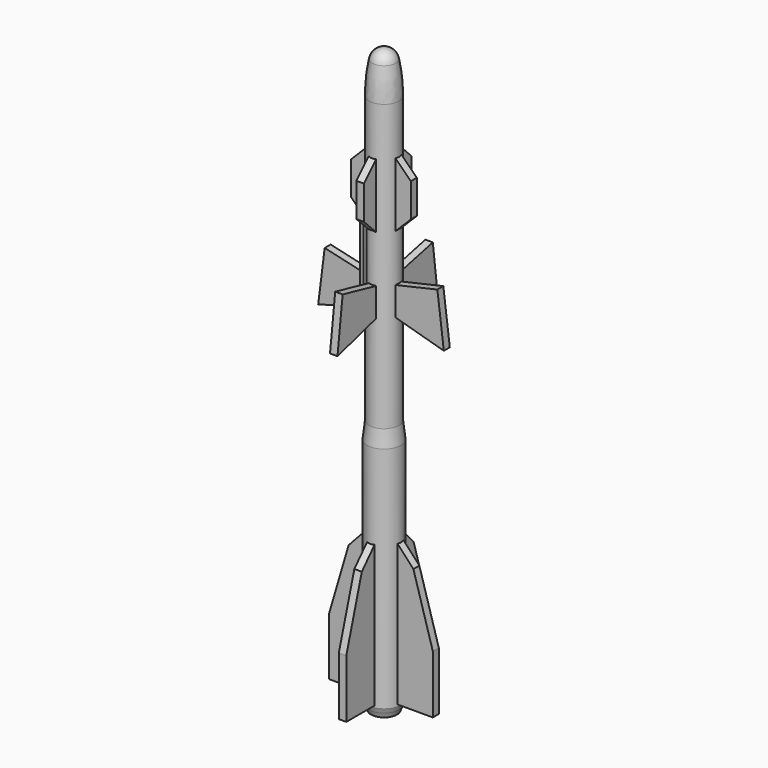
from build123d import *

# Parameters (mm, degrees)
F4_DEPTH = 0.2
F5_COUNT = 4
F8_DEPTH = 6.0416666667
F9_SIZE  = 0.1


with BuildPart() as f2:
    # F1 (on Front) → F2 (revolve)
    with BuildSketch(Plane.XZ):
        Polygon((0.7986111111, 13.6805555556), (0.7986111111, 0.2604166667), (0.9027777778, 0.5208333333), (0.9027777778, 12.7777777778), align=None)
        with BuildLine():
            Line((0, 31.25), (0, 0))
            Line((0, 0), (0.6944444444, 0))
            Line((0.6944444444, 0), (0.7986111111, 0.2604166667))
            Line((0.7986111111, 0.2604166667), (0.7986111111, 13.6805555556))
            Line((0.7986111111, 13.6805555556), (0.7986111111, 28.9930555556))
            ThreePointArc((0.7986111111, 28.9930555556), (0.7567775283, 29.8651154933), (0.6316609682, 30.7291666667))
            ThreePointArc((0.6316609682, 30.7291666667), (0.4093479388, 31.1030002792), (0, 31.25))
        make_face()
    revolve(axis=Axis((0, 0, 15.625), (0, 0, 1)))

    # F3 (on Front) → F4 (join, symmetric)
    with BuildSketch(Plane.XZ):
        Polygon((0, 27.1527777778), (0, 0.625), (2.7777777778, 0.625), (2.7777777778, 3.75), (1.7361111111, 7.2916666667), (0.4, 8.7391203704), (0.4, 18.9610719875), (3.3680555556, 18.125), (3.0208333333, 20.9027777778), (0.4, 20.3012750455), (0.4, 22.5527777778), (1.5972222222, 23.75), (1.5972222222, 25.5555555556), align=None)
    extrude(amount=F4_DEPTH, both=True)

    # F5: F2 ×4 about axis
    f5_axis = Axis((0, 0, 13.6805555556), (0, 0, 1))


with BuildPart() as f2_1:
    add(f2.part)
    for i in range(1, F5_COUNT):
        add(f2.part.rotate(f5_axis, i * 360 / F5_COUNT))

    # F7 (on offset) → F8 (join)
    with BuildSketch(Plane.XY.offset(18.75)):
        with BuildLine():
            Line((-0.4822828892, -0.777240922), (-0.0760130179, -0.3709710507))
            Line((-0.0760130179, -0.3709710507), (-0.3709710507, -0.0760130179))
            Line((-0.3709710507, -0.0760130179), (-0.777240922, -0.4822828892))
            ThreePointArc((-0.777240922, -0.4822828892), (-0.7090709667, -0.7090709667), (-0.4822828892, -0.777240922))
        make_face()
    extrude(amount=F8_DEPTH)

    # F9
    f9_edges = [f2_1.edges().sort_by_distance(p)[0] for p in [
        (-0.564703, -0.564703, 24.791667),
        (-0.564703, -0.564703, 18.75),
    ]]
    chamfer(f9_edges, length=F9_SIZE)


solid = f2_1.part
